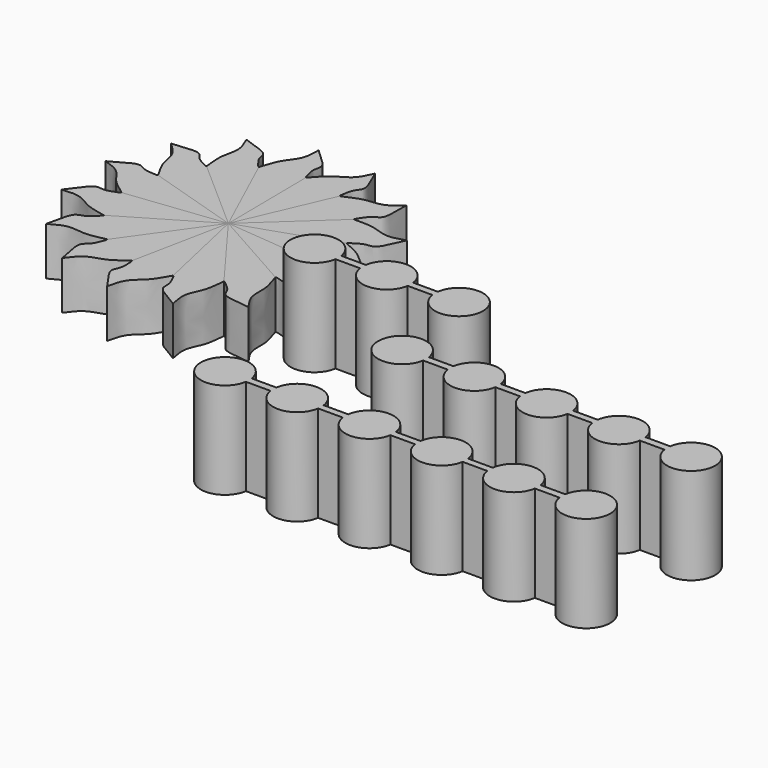
from build123d import *

# Parameters (mm, degrees)
F1_DEPTH = 25.4
F2_COUNT = 15
F2_ANGLE = 336
F4_DEPTH = 50.8


with BuildPart() as f1:
    # F0 (on Top) → F1 (new body)
    with BuildSketch(Plane.XY):
        with BuildLine():
            add(Edge.make_bspline(
                [(-83.9929282665, 107.6871391406), (-81.0532604181, 105.0861154538), (-76.324912229, 100.8882457083), (-73.3656713076, 96.8350866088), (-75.1565327576, 92.6904927645), (-73.6912466976, 87.7172811618), (-73.4023821032, 85.9973544003), (-72.871272291, 85.3819537668)],
                knots=[0, 0, 0, 0, 0.291723365, 0.4778907498, 0.6587148057, 0.8598782339, 1, 1, 1, 1], degree=3))
            add(Edge.make_bspline(
                [(-83.9929282665, 107.6871391406), (-84.0101378789, 104.3727041356), (-84.0433871886, 97.9691505261), (-89.9993148671, 91.5970667412), (-92.1233982554, 85.8762783156), (-93.3045104528, 82.3384820057), (-93.8807725906, 80.612398684)],
                knots=[0, 0, 0, 0, 0.2867072757, 0.5539240949, 0.7823605113, 1, 1, 1, 1], degree=3))
            Line((-93.8807725906, 80.612398684), (-72.291046381, 33.5460416973))
            Line((-72.291046381, 33.5460416973), (-72.871272291, 85.3819537668))
        make_face()
    extrude(amount=F1_DEPTH)


with BuildPart() as f2_1:
    # F2: instance of F1
    add(f1.part.rotate(Axis((-72.291046381, 33.5460416973, 12.7), (0, 0, -1)), 1 * F2_ANGLE / (F2_COUNT - 1)))


with BuildPart() as f2_2:
    # F2: instance of F1
    add(f1.part.rotate(Axis((-72.291046381, 33.5460416973, 12.7), (0, 0, -1)), 2 * F2_ANGLE / (F2_COUNT - 1)))


with BuildPart() as f2_3:
    # F2: instance of F1
    add(f1.part.rotate(Axis((-72.291046381, 33.5460416973, 12.7), (0, 0, -1)), 3 * F2_ANGLE / (F2_COUNT - 1)))


with BuildPart() as f2_4:
    # F2: instance of F1
    add(f1.part.rotate(Axis((-72.291046381, 33.5460416973, 12.7), (0, 0, -1)), 4 * F2_ANGLE / (F2_COUNT - 1)))


with BuildPart() as f2_5:
    # F2: instance of F1
    add(f1.part.rotate(Axis((-72.291046381, 33.5460416973, 12.7), (0, 0, -1)), 5 * F2_ANGLE / (F2_COUNT - 1)))

    # F3 (on Top) → F4 (join)
    with BuildSketch(Plane.XY):
        with BuildLine():
            Line((25.5436270684, 1.9045993809), (12.5563729316, 1.9045993809))
            ThreePointArc((12.5563729316, 1.9045993809), (-12.7, 0), (12.5563729316, -1.9045993809))
            Line((12.5563729316, -1.9045993809), (12.5563729316, -1.9197008551))
            Line((12.5563729316, -1.9197008551), (25.5459270105, -1.9197008551))
            ThreePointArc((25.5459270105, -1.9197008551), (38.189435477, -12.6996850865), (50.679864849, -1.7426991654))
            Line((50.679864849, -1.7426991654), (50.679864849, -1.9197008551))
            Line((50.679864849, -1.9197008551), (63.6459270105, -1.9197008551))
            ThreePointArc((63.6459270105, -1.9197008551), (88.8996850865, 0.089435477), (63.620135151, 1.7426991654))
            Line((63.620135151, 1.7426991654), (50.679864849, 1.7426991654))
            ThreePointArc((50.679864849, 1.7426991654), (38.1817978453, 12.6997365765), (25.5436270684, 1.9045993809))
        make_face()
    extrude(amount=F4_DEPTH)


with BuildPart() as f2_6:
    # F2: instance of F1
    add(f1.part.rotate(Axis((-72.291046381, 33.5460416973, 12.7), (0, 0, -1)), 6 * F2_ANGLE / (F2_COUNT - 1)))


with BuildPart() as f2_7:
    # F2: instance of F1
    add(f1.part.rotate(Axis((-72.291046381, 33.5460416973, 12.7), (0, 0, -1)), 7 * F2_ANGLE / (F2_COUNT - 1)))


with BuildPart() as f2_8:
    # F2: instance of F1
    add(f1.part.rotate(Axis((-72.291046381, 33.5460416973, 12.7), (0, 0, -1)), 8 * F2_ANGLE / (F2_COUNT - 1)))


with BuildPart() as f2_9:
    # F2: instance of F1
    add(f1.part.rotate(Axis((-72.291046381, 33.5460416973, 12.7), (0, 0, -1)), 9 * F2_ANGLE / (F2_COUNT - 1)))


with BuildPart() as f2_10:
    # F2: instance of F1
    add(f1.part.rotate(Axis((-72.291046381, 33.5460416973, 12.7), (0, 0, -1)), 10 * F2_ANGLE / (F2_COUNT - 1)))


with BuildPart() as f2_11:
    # F2: instance of F1
    add(f1.part.rotate(Axis((-72.291046381, 33.5460416973, 12.7), (0, 0, -1)), 11 * F2_ANGLE / (F2_COUNT - 1)))


with BuildPart() as f2_12:
    # F2: instance of F1
    add(f1.part.rotate(Axis((-72.291046381, 33.5460416973, 12.7), (0, 0, -1)), 12 * F2_ANGLE / (F2_COUNT - 1)))


with BuildPart() as f2_13:
    # F2: instance of F1
    add(f1.part.rotate(Axis((-72.291046381, 33.5460416973, 12.7), (0, 0, -1)), 13 * F2_ANGLE / (F2_COUNT - 1)))


with BuildPart() as f2_14:
    # F2: instance of F1
    add(f1.part.rotate(Axis((-72.291046381, 33.5460416973, 12.7), (0, 0, -1)), 14 * F2_ANGLE / (F2_COUNT - 1)))


with BuildPart() as f4:
    # F3 (on Top) → F4, piece 2 (new body)
    with BuildSketch(Plane.XY):
        with BuildLine():
            Line((110.1741871903, -46.1182317356), (97.1869330535, -46.1182317356))
            ThreePointArc((97.1869330535, -46.1182317356), (71.9305601219, -48.0228311165), (97.1869330535, -49.9274304974))
            Line((97.1869330535, -49.9274304974), (97.1869330535, -49.9425319716))
            Line((97.1869330535, -49.9425319716), (110.1764871323, -49.9425319716))
            ThreePointArc((110.1764871323, -49.9425319716), (122.7305601219, -60.7228311165), (135.2846331114, -49.9425319716))
            Line((135.2846331114, -49.9425319716), (148.2764871323, -49.9425319716))
            ThreePointArc((148.2764871323, -49.9425319716), (160.8305601219, -60.7228311165), (173.3846331114, -49.9425319716))
            Line((173.3846331114, -49.9425319716), (186.3764871323, -49.9425319716))
            ThreePointArc((186.3764871323, -49.9425319716), (198.9305601219, -60.7228311165), (211.4846331114, -49.9425319716))
            Line((211.4846331114, -49.9425319716), (224.4741871903, -49.9425319716))
            Line((224.4741871903, -49.9425319716), (224.4741871903, -49.9274304974))
            ThreePointArc((224.4741871903, -49.9274304974), (249.7305601219, -48.0228311165), (224.4741871903, -46.1182317356))
            Line((224.4741871903, -46.1182317356), (211.4869330535, -46.1182317356))
            ThreePointArc((211.4869330535, -46.1182317356), (198.8487622766, -35.32309454), (186.3506952729, -46.2801319511))
            Line((186.3506952729, -46.2801319511), (173.4104249709, -46.2801319511))
            ThreePointArc((173.4104249709, -46.2801319511), (160.8305601219, -35.3228311165), (148.2506952729, -46.2801319511))
            Line((148.2506952729, -46.2801319511), (135.3104249709, -46.2801319511))
            ThreePointArc((135.3104249709, -46.2801319511), (122.8123579672, -35.32309454), (110.1741871903, -46.1182317356))
        make_face()
    extrude(amount=F4_DEPTH)


with BuildPart() as f4b:
    # F3 (on Top) → F4, piece 3 (new body)
    with BuildSketch(Plane.XY):
        with BuildLine():
            Line((65.0542236039, -106.5155065277), (52.0669694672, -106.5155065277))
            ThreePointArc((52.0669694672, -106.5155065277), (26.8105965356, -108.4201059087), (52.0669694672, -110.3247052896))
            Line((52.0669694672, -110.3247052896), (52.0669694672, -110.3398067638))
            Line((52.0669694672, -110.3398067638), (65.056523546, -110.3398067638))
            ThreePointArc((65.056523546, -110.3398067638), (77.6105965356, -121.1201059087), (90.1646695251, -110.3398067638))
            Line((90.1646695251, -110.3398067638), (103.156523546, -110.3398067638))
            ThreePointArc((103.156523546, -110.3398067638), (115.7105965356, -121.1201059087), (128.2646695251, -110.3398067638))
            Line((128.2646695251, -110.3398067638), (134.7605965356, -110.3398067638))
            Line((134.7605965356, -110.3398067638), (141.256523546, -110.3398067638))
            ThreePointArc((141.256523546, -110.3398067638), (153.8105965356, -121.1201059087), (166.3646695251, -110.3398067638))
            Line((166.3646695251, -110.3398067638), (179.356523546, -110.3398067638))
            ThreePointArc((179.356523546, -110.3398067638), (191.9105965356, -121.1201059087), (204.4646695251, -110.3398067638))
            Line((204.4646695251, -110.3398067638), (217.4542236039, -110.3398067638))
            Line((217.4542236039, -110.3398067638), (217.4542236039, -110.3247052896))
            ThreePointArc((217.4542236039, -110.3247052896), (242.7105965356, -108.4201059087), (217.4542236039, -106.5155065277))
            Line((217.4542236039, -106.5155065277), (204.4669694672, -106.5155065277))
            ThreePointArc((204.4669694672, -106.5155065277), (191.8287986903, -95.7203693322), (179.3307316866, -106.6774067433))
            Line((179.3307316866, -106.6774067433), (166.3904613845, -106.6774067433))
            ThreePointArc((166.3904613845, -106.6774067433), (153.8105965356, -95.7201059087), (141.2307316866, -106.6774067433))
            Line((141.2307316866, -106.6774067433), (134.7605965356, -106.6774067433))
            Line((134.7605965356, -106.6774067433), (128.2904613845, -106.6774067433))
            ThreePointArc((128.2904613845, -106.6774067433), (115.7105965356, -95.7201059087), (103.1307316866, -106.6774067433))
            Line((103.1307316866, -106.6774067433), (90.1904613845, -106.6774067433))
            ThreePointArc((90.1904613845, -106.6774067433), (77.6923943808, -95.7203693322), (65.0542236039, -106.5155065277))
        make_face()
    extrude(amount=F4_DEPTH)


solid = Compound([f1.part, f2_1.part, f2_2.part, f2_3.part, f2_4.part, f2_5.part, f2_6.part, f2_7.part, f2_8.part, f2_9.part, f2_10.part, f2_11.part, f2_12.part, f2_13.part, f2_14.part, f4.part, f4b.part])
